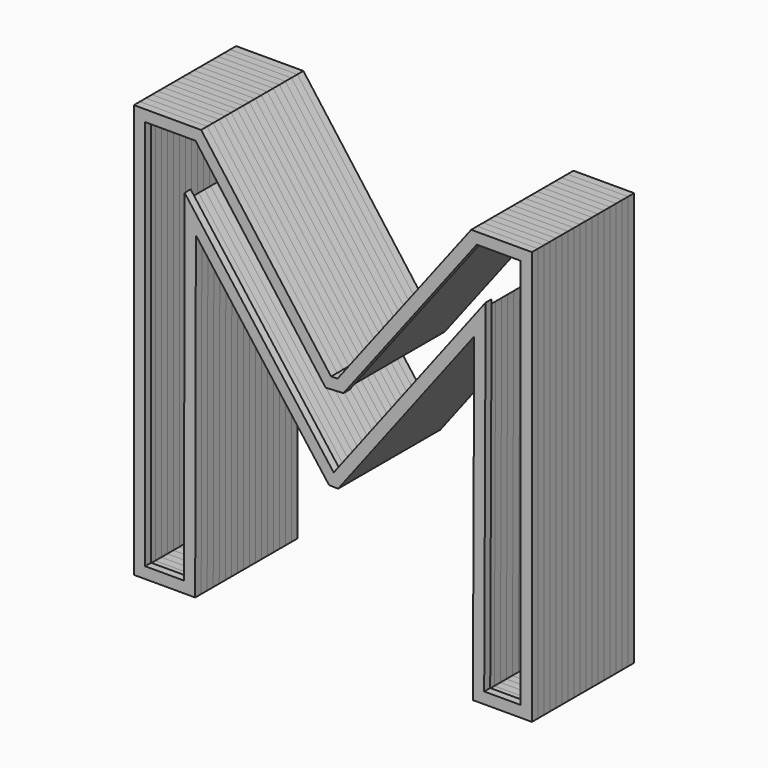
from build123d import *

# Parameters (mm, degrees)
F1_DEPTH = 4
F3_DEPTH = 25
F5_DEPTH = 4


with BuildPart() as f1:
    # F0 (on Front) → F1 (new body)
    with BuildSketch(Plane.XZ):
        Polygon((-105.876397, 110.00009), (-105.876397, -110.000091), (-73.247898, -110.000091), (-72.892537, 59.824858), (-2.023133, -34.20799), (2.776402, -34.318577), (75.175773, 60.527485), (74.473318, -110.000091), (105.876397, -110.000091), (105.876397, 110.00009), (73.591029, 110.00009), (2.539724, 17.196624), (-0.969278, 17.020925), (-70.086162, 110.00009), align=None)
    extrude(amount=F1_DEPTH)

    # F2 (on face) → F3 (cut)
    with BuildSketch(Plane.XZ.offset(4)):
        Polygon((-73.1021687518, 104.00009), (-99.876397, 104.00009), (-99.876397, -104.000091), (-79.2353560548, -104.000091), (-78.8551352675, 77.705205344), (0.4337471345, -27.4990013542), (81.2493335249, 78.3726382952), (80.4980847324, -104.000091), (99.876397, -104.000091), (99.876397, 104.00009), (76.5539353876, 104.00009), (5.6147564554, 11.3430771541), (-3.8716683195, 10.8680830257), align=None)
    extrude(amount=-F3_DEPTH, mode=Mode.SUBTRACT)


with BuildPart() as f5:
    # F4 (on face) → F5 (new body)
    with BuildSketch(Plane(origin=(0, 0, 0), x_dir=(-1, 0, 0), z_dir=(0, 1, 0))):
        Polygon((0.969278, 17.020925), (-2.539724, 17.196624), (-73.591029, 110.00009), (-105.876397, 110.00009), (-105.876397, -110.000091), (-74.473318, -110.000091), (-75.175773, 60.527485), (-2.776402, -34.318577), (2.023133, -34.20799), (72.892537, 59.824858), (73.247898, -110.000091), (105.876397, -110.000091), (105.876397, 110.00009), (70.086162, 110.00009), align=None)
        Polygon((-79.4939569437, -105.000091), (-100.876397, -105.000091), (-100.876397, 105.00009), (-76.0601176563, 105.00009), (-5.1022510461, 12.3186682951), (3.3879365996, 11.8935566881), (72.5995009599, 105.00009), (100.876397, 105.00009), (100.876397, -105.000091), (78.237446379, -105.000091), (77.8613688895, 74.7251474533), (-0.428668829, -29.1537452872), (-80.2370734374, 75.3984460794), align=None, mode=Mode.SUBTRACT)
    extrude(amount=F5_DEPTH)


with BuildPart() as f6_1:
    # F6: instance of F5
    add(f5.part.mirror(Plane(origin=(0.4384829576, 4, 8.9854469814), x_dir=(-1, 0, 0), z_dir=(0, 1, 0))))


with BuildPart() as f7_1:
    # F7: instance of F6_1
    add(f6_1.part.mirror(Plane(origin=(0.4384829576, 8, 8.9854469814), x_dir=(-1, 0, 0), z_dir=(0, 1, 0))))


with BuildPart() as f7_2:
    # F7: instance of F5
    add(f5.part.mirror(Plane(origin=(0.4384829576, 8, 8.9854469814), x_dir=(-1, 0, 0), z_dir=(0, 1, 0))))


with BuildPart() as f8_1:
    # F8: instance of F5
    add(f5.part.mirror(Plane(origin=(0.4384829576, 16, 8.9854469814), x_dir=(-1, 0, 0), z_dir=(0, 1, 0))))


with BuildPart() as f8_2:
    # F8: instance of F6_1
    add(f6_1.part.mirror(Plane(origin=(0.4384829576, 16, 8.9854469814), x_dir=(-1, 0, 0), z_dir=(0, 1, 0))))


with BuildPart() as f8_3:
    # F8: instance of F7_1
    add(f7_1.part.mirror(Plane(origin=(0.4384829576, 16, 8.9854469814), x_dir=(-1, 0, 0), z_dir=(0, 1, 0))))


with BuildPart() as f8_4:
    # F8: instance of F7_2
    add(f7_2.part.mirror(Plane(origin=(0.4384829576, 16, 8.9854469814), x_dir=(-1, 0, 0), z_dir=(0, 1, 0))))


with BuildPart() as f9_1:
    # F9: instance of F8_1
    add(f8_1.part.mirror(Plane(origin=(0.4384829576, 32, 8.9854469814), x_dir=(-1, 0, 0), z_dir=(0, 1, 0))))


with BuildPart() as f9_2:
    # F9: instance of F8_2
    add(f8_2.part.mirror(Plane(origin=(0.4384829576, 32, 8.9854469814), x_dir=(-1, 0, 0), z_dir=(0, 1, 0))))


with BuildPart() as f9_3:
    # F9: instance of F8_4
    add(f8_4.part.mirror(Plane(origin=(0.4384829576, 32, 8.9854469814), x_dir=(-1, 0, 0), z_dir=(0, 1, 0))))


with BuildPart() as f9_4:
    # F9: instance of F7_2
    add(f7_2.part.mirror(Plane(origin=(0.4384829576, 32, 8.9854469814), x_dir=(-1, 0, 0), z_dir=(0, 1, 0))))


with BuildPart() as f9_5:
    # F9: instance of F5
    add(f5.part.mirror(Plane(origin=(0.4384829576, 32, 8.9854469814), x_dir=(-1, 0, 0), z_dir=(0, 1, 0))))


with BuildPart() as f9_6:
    # F9: instance of F8_3
    add(f8_3.part.mirror(Plane(origin=(0.4384829576, 32, 8.9854469814), x_dir=(-1, 0, 0), z_dir=(0, 1, 0))))


with BuildPart() as f9_7:
    # F9: instance of F7_1
    add(f7_1.part.mirror(Plane(origin=(0.4384829576, 32, 8.9854469814), x_dir=(-1, 0, 0), z_dir=(0, 1, 0))))


with BuildPart() as f9_8:
    # F9: instance of F6_1
    add(f6_1.part.mirror(Plane(origin=(0.4384829576, 32, 8.9854469814), x_dir=(-1, 0, 0), z_dir=(0, 1, 0))))


solid = Compound([f1.part, f5.part, f6_1.part, f7_1.part, f7_2.part, f8_1.part, f8_2.part, f8_3.part, f8_4.part, f9_1.part, f9_2.part, f9_3.part, f9_4.part, f9_5.part, f9_6.part, f9_7.part, f9_8.part])
